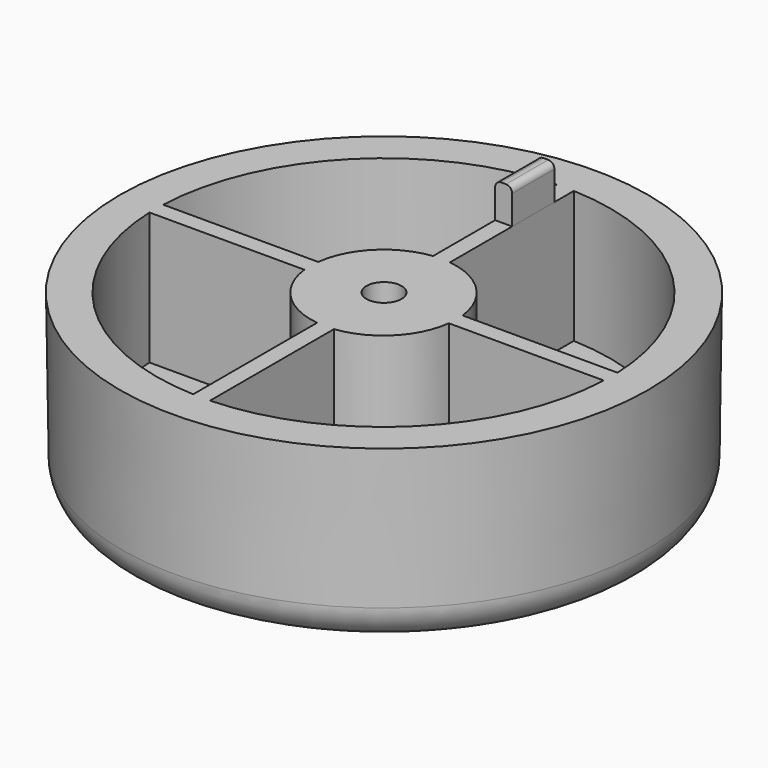
from build123d import *

# Parameters (mm, degrees)
F3_DEPTH = 15
F2_W     = 1.932107
F2_H     = 6
F4_DEPTH = 4
F5_R     = 0.7
F6_R     = 0.7


with BuildPart() as f1:
    # F0 (on Front) → F1 (revolve)
    with BuildSketch(Plane.XZ):
        with BuildLine():
            Line((-2, 20), (-30, 20))
            Line((-30, 20), (-29.773503, 3.94358))
            ThreePointArc((-29.773503, 3.94358), (-28.58231, 1.151695), (-25.773901, 0))
            Line((-25.773901, 0), (-4.717873, 0))
            Line((-4.717873, 0), (-4.717873, 16))
            Line((-4.717873, 16), (-2, 16))
            Line((-2, 16), (-2, 20))
        make_face()
    revolve(axis=Axis((0, 0, 6.694083), (0, 0, -1)))

    # F2 (on face) → F3 (cut)
    with BuildSketch(Plane.XY.offset(20)):
        with BuildLine():
            Line((-1, -25.842809), (-1, -8.251002))
            ThreePointArc((-1, -8.251002), (-5.877033, -5.877033), (-8.251002, -1))
            Line((-8.251002, -1), (-25.842809, -1))
            ThreePointArc((-25.842809, -1), (-18.287302, -18.287302), (-1, -25.842809))
        make_face()
        with BuildLine():
            ThreePointArc((8.183109, -1.025774), (5.80914, -5.902807), (0.932107, -8.276776))
            Line((0.932107, -8.276776), (0.932107, -25.868583))
            ThreePointArc((0.932107, -25.868583), (18.219408, -18.313075), (25.774916, -1.025774))
            Line((25.774916, -1.025774), (8.183109, -1.025774))
        make_face()
        with BuildLine():
            ThreePointArc((0.957881, 8.157335), (5.834914, 5.783366), (8.208883, 0.906333))
            Line((8.208883, 0.906333), (25.80069, 0.906333))
            ThreePointArc((25.80069, 0.906333), (18.245182, 18.193635), (0.957881, 25.749142))
            Line((0.957881, 25.749142), (0.957881, 23))
            Line((0.957881, 23), (0.957881, 17))
            Line((0.957881, 17), (0.957881, 8.157335))
        make_face()
        with BuildLine():
            Line((-0.974226, 8.183109), (-0.974226, 17))
            Line((-0.974226, 17), (-0.974226, 23))
            Line((-0.974226, 23), (-0.974226, 25.774916))
            ThreePointArc((-0.974226, 25.774916), (-18.261528, 18.219408), (-25.817035, 0.932107))
            Line((-25.817035, 0.932107), (-8.225228, 0.932107))
            ThreePointArc((-8.225228, 0.932107), (-5.851259, 5.80914), (-0.974226, 8.183109))
        make_face()
    extrude(amount=-F3_DEPTH, mode=Mode.SUBTRACT)

    # F2 (on face) → F4 (join)
    with BuildSketch(Plane.XY.offset(20)):
        with Locations((-0.008172, 20)):
            Rectangle(F2_W, F2_H)
    extrude(amount=F4_DEPTH)

    # F5
    f5_edges = [f1.edges().sort_by_distance(p)[0] for p in [
        (-0.974226, 20, 24),
    ]]
    fillet(f5_edges, radius=F5_R)

    # F6
    f6_edges = [f1.edges().sort_by_distance(p)[0] for p in [
        (0.957881, 20, 24),
    ]]
    fillet(f6_edges, radius=F6_R)


solid = f1.part
